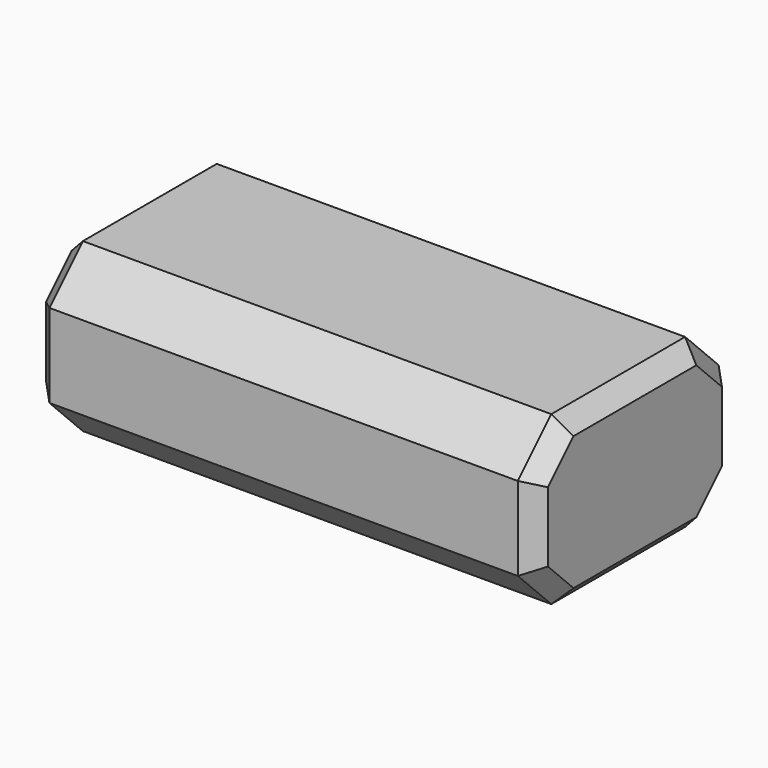
from build123d import *

# Parameters (mm, degrees)
F0_W     = 60
F0_H     = 30
F1_DEPTH = 20
F2_SIZE  = 5
F3_SIZE  = 2


with BuildPart() as f1:
    # F0 (on Top) → F1 (new body)
    with BuildSketch(Plane.XY):
        Rectangle(F0_W, F0_H)
    extrude(amount=F1_DEPTH)

    # F2
    f2_edges = [f1.edges().sort_by_distance(p)[0] for p in [
        (0, -15, 20),
        (0, 15, 20),
        (0, -15, 0),
        (0, 15, 0),
    ]]
    chamfer(f2_edges, length=F2_SIZE)

    # F3
    f3_edges = [f1.edges().sort_by_distance(p)[0] for p in [
        (30, -15, 10),
        (30, -12.5, 2.5),
        (30, -12.5, 17.5),
        (30, 0, 0),
        (30, 0, 20),
        (30, 12.5, 2.5),
        (30, 12.5, 17.5),
        (30, 15, 10),
        (-30, 15, 10),
        (-30, 12.5, 2.5),
        (-30, 12.5, 17.5),
        (-30, 0, 0),
        (-30, 0, 20),
        (-30, -12.5, 2.5),
        (-30, -12.5, 17.5),
        (-30, -15, 10),
    ]]
    chamfer(f3_edges, length=F3_SIZE)


solid = f1.part
